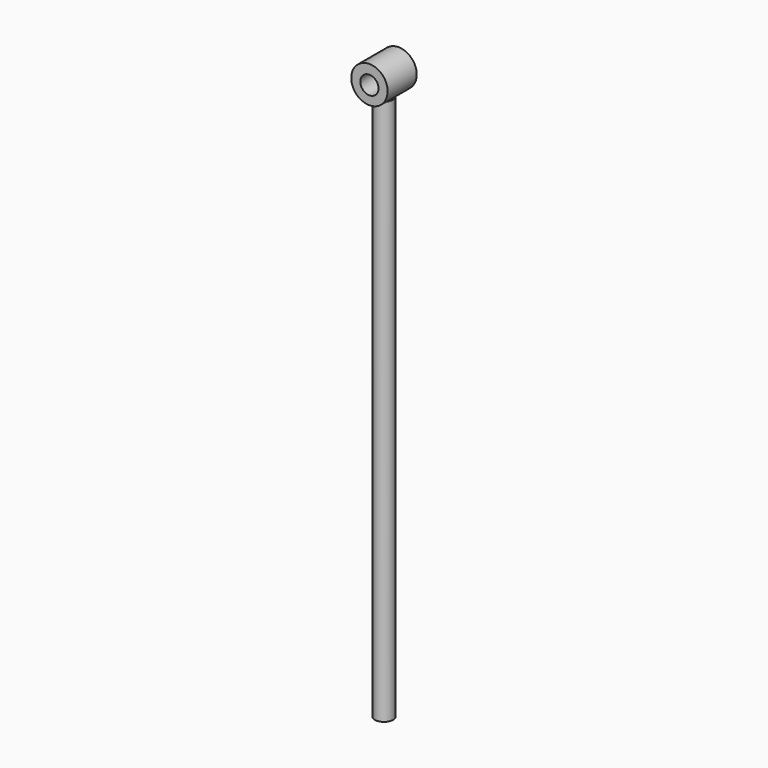
from build123d import *

# Parameters (mm, degrees)
F0_R     = 6.35
F1_DEPTH = 381
F2_R     = 12.7
F3_DEPTH = 12.7
F4_R     = 6.35
F5_DEPTH = 12.7


with BuildPart() as f1:
    # F0 (on Top) → F1 (new body)
    with BuildSketch(Plane.XY):
        Circle(F0_R)
    extrude(amount=-F1_DEPTH)

    # F2 (on Front) → F3 (join, symmetric)
    with BuildSketch(Plane.XZ):
        with Locations((0, 12.382501)):
            Circle(F2_R)
    extrude(amount=F3_DEPTH, both=True)

    # F4 (on Front) → F5 (cut, symmetric)
    with BuildSketch(Plane.XZ):
        with Locations((0, 12.110357)):
            Circle(F4_R)
    extrude(amount=F5_DEPTH, both=True, mode=Mode.SUBTRACT)


solid = f1.part
